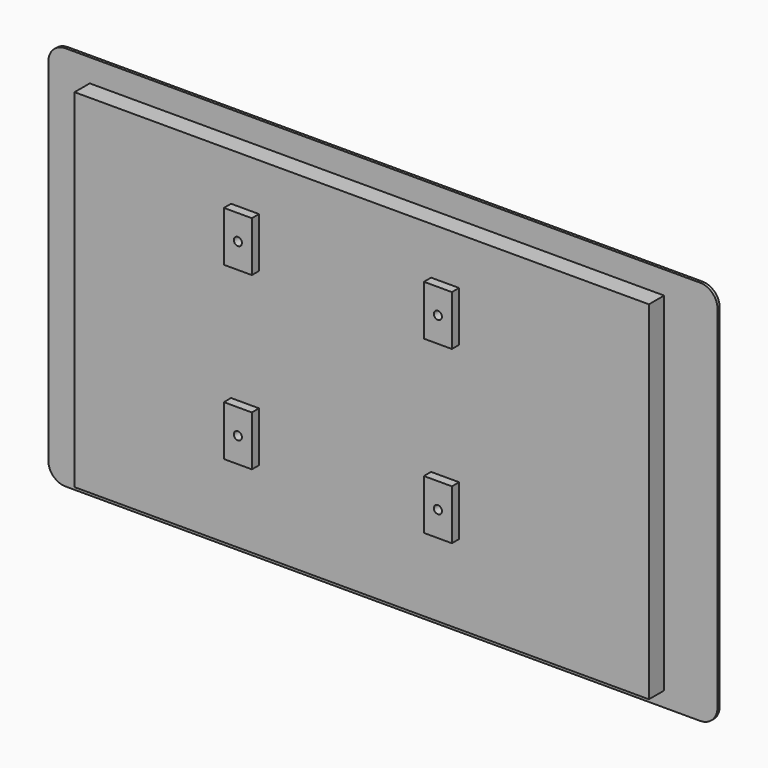
from build123d import *

# Parameters (mm, degrees)
F1_DEPTH = 0.8
F2_W     = 166.25
F2_H     = 100.65
F3_DEPTH = 5.5
F4_W     = 8.1
F4_H     = 14.5
F4_R     = 1.175
F5_DEPTH = 2.6


with BuildPart() as f1:
    # F0 (on Front) → F1 (new body)
    with BuildSketch(Plane.XZ):
        with BuildLine():
            Line((-95.125, 51.975), (-95.125, 0))
            Line((-95.125, 0), (-95.125, -49.675))
            ThreePointArc((-95.125, -49.675), (-93.660534, -53.210534), (-90.125, -54.675))
            Line((-90.125, -54.675), (93.575, -54.675))
            ThreePointArc((93.575, -54.675), (97.110534, -53.210534), (98.575, -49.675))
            Line((98.575, -49.675), (98.575, 0))
            Line((98.575, 0), (98.575, 51.975))
            ThreePointArc((98.575, 51.975), (97.110534, 55.510534), (93.575, 56.975))
            Line((93.575, 56.975), (-90.125, 56.975))
            ThreePointArc((-90.125, 56.975), (-93.660534, 55.510534), (-95.125, 51.975))
        make_face()
    extrude(amount=F1_DEPTH)

    # F2 (on face) → F3 (join)
    with BuildSketch(Plane.XZ.offset(0.8)):
        Rectangle(F2_W, F2_H)
    extrude(amount=F3_DEPTH)


with BuildPart() as f5:
    # F4 (on face) → F5 (new body)
    with BuildSketch(Plane.XZ.offset(6.3)):
        with Locations((-33.775, 29.375)):
            Rectangle(F4_W, F4_H)
        with Locations((-33.775, 29.375)):
            Circle(F4_R, mode=Mode.SUBTRACT)
        with Locations((24.125, 29.375)):
            Rectangle(F4_W, F4_H)
        with Locations((24.125, 29.375)):
            Circle(F4_R, mode=Mode.SUBTRACT)
        with Locations((24.125, -20.125)):
            Rectangle(F4_W, F4_H)
        with Locations((24.125, -20.125)):
            Circle(F4_R, mode=Mode.SUBTRACT)
        with Locations((-33.775, -20.125)):
            Rectangle(F4_W, F4_H)
        with Locations((-33.775, -20.125)):
            Circle(F4_R, mode=Mode.SUBTRACT)
    extrude(amount=F5_DEPTH)


solid = Compound([f1.part, f5.part])
